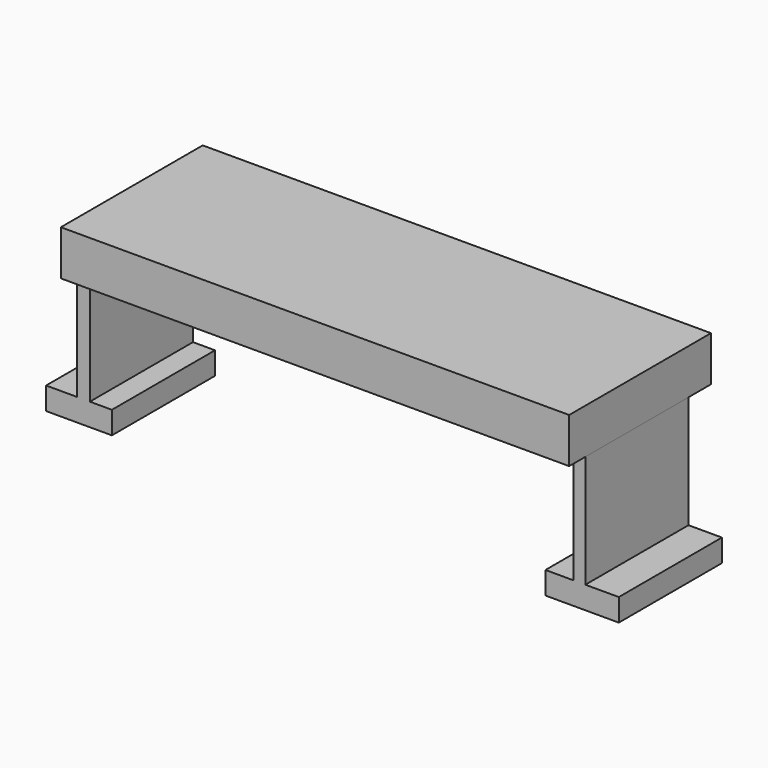
from build123d import *

# Parameters (mm, degrees)
F0_W     = 112.853165
F0_H     = 39.353924
F1_DEPTH = 10
F2_W     = 2.840738
F2_H     = 28.620001
F2_W_2   = 2.645086
F3_DEPTH = 25
F4_W     = 14.609244
F4_H     = 28.620001
F5_DEPTH = 5
F6_W     = 16.285717
F6_H     = 28.620001
F7_DEPTH = 5


with BuildPart() as f1:
    # F0 (on Top) → F1 (new body)
    with BuildSketch(Plane.XY):
        with Locations((1.59152, -0.578734)):
            Rectangle(F0_W, F0_H)
    extrude(amount=F1_DEPTH)

    # F2 (on face) → F3 (join)
    with BuildSketch(Plane(origin=(0, 0, 0), x_dir=(1, 0, 0), z_dir=(0, 0, -1))):
        with Locations((-53.414693, 1.450803)):
            Rectangle(F2_W, F2_H)
        with Locations((56.69556, 1.450803)):
            Rectangle(F2_W_2, F2_H)
    extrude(amount=F3_DEPTH)

    # F4 (on face) → F5 (join)
    with BuildSketch(Plane(origin=(0, 0, -25), x_dir=(1, 0, 0), z_dir=(0, 0, -1))):
        with Locations((-54.408634, 1.450803)):
            Rectangle(F4_W, F4_H)
    extrude(amount=F5_DEPTH)

    # F6 (on face) → F7 (join)
    with BuildSketch(Plane(origin=(0, 0, -25), x_dir=(1, 0, 0), z_dir=(0, 0, -1))):
        with Locations((57.296015, 1.450803)):
            Rectangle(F6_W, F6_H)
    extrude(amount=F7_DEPTH)


solid = f1.part
